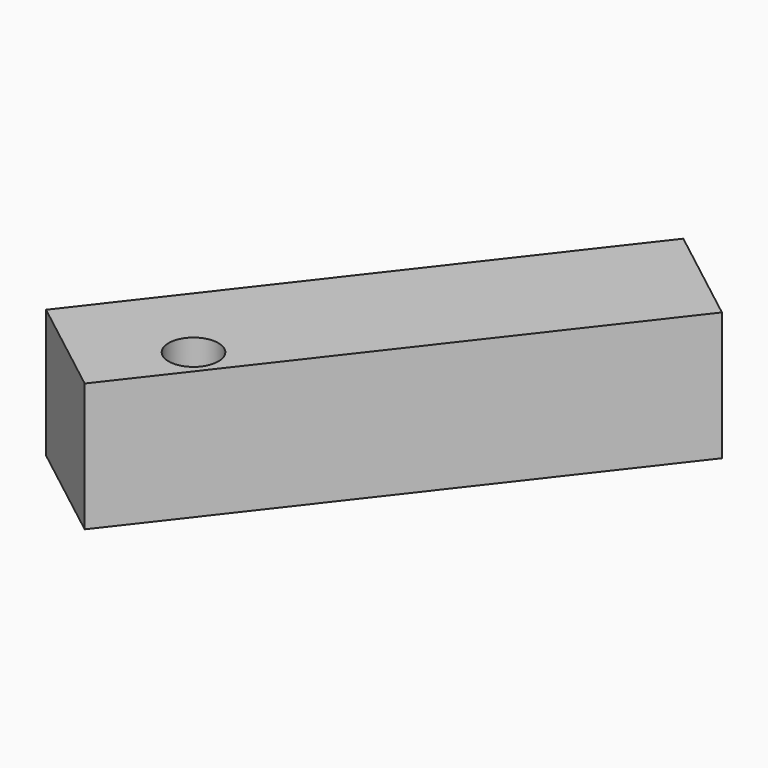
from build123d import *

# Parameters (mm, degrees)
CIRCLE001_R      = 1.937531
EXTRUDE011_DEPTH = 10
EXTRUDE001_W     = 39.873674
EXTRUDE001_H     = 10
EXTRUDE004_DEPTH = 10


with BuildPart() as extrude011:
    # Circle001 → Extrude011 (new body)
    with BuildSketch(Plane(origin=(10.504012, -11.75601, 0), x_dir=(1, 0, 0), z_dir=(0, 0, 1))):
        Circle(CIRCLE001_R)
    extrude(amount=EXTRUDE011_DEPTH)


with BuildPart() as cut001:
    # Extrude001 → Extrude004 (new body)
    with BuildSketch(Plane(origin=(12.214123, 2.775603, 5), x_dir=(-0.612281, -0.790641, 0), z_dir=(0.790641, -0.612281, 0))):
        Rectangle(EXTRUDE001_W, EXTRUDE001_H)
    extrude(amount=EXTRUDE004_DEPTH)

    # Cut001: cut Extrude011
    add(extrude011.part, mode=Mode.SUBTRACT)


solid = cut001.part
